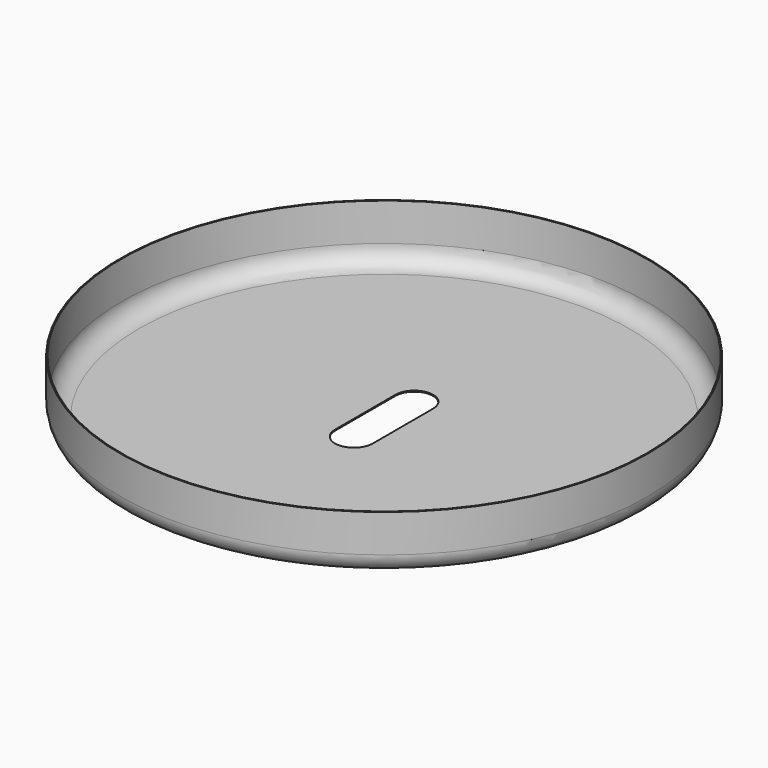
from build123d import *

# Parameters (mm, degrees)
F0_R     = 177.8
F1_DEPTH = 19.05
F2_R     = 12.7
F3_T     = -0.6985
F5_DEPTH = 12.7


with BuildPart() as f1:
    # F0 (on Top) → F1 (new body, symmetric)
    with BuildSketch(Plane.XY):
        Circle(F0_R)
    extrude(amount=F1_DEPTH, both=True)

    # F2
    f2_edges = [f1.edges().sort_by_distance(p)[0] for p in [
        (-177.8, 0, -19.05),
    ]]
    fillet(f2_edges, radius=F2_R)

    # F3
    f3_openings = [f1.faces().sort_by_distance(p)[0] for p in [
        (0, 0, 19.05),
    ]]
    offset(amount=F3_T, openings=f3_openings)

    # F4 (on face) → F5 (cut, symmetric)
    with BuildSketch(Plane(origin=(0, 0, -19.05), x_dir=(1, 0, 0), z_dir=(0, 0, -1))):
        with BuildLine():
            Line((12.7, -25.399946), (12.699786, 25.326312))
            ThreePointArc((12.699786, 25.326312), (0.036844, 38.099947), (-12.7, 25.4))
            Line((-12.7, 25.4), (-12.7, -25.4))
            ThreePointArc((-12.7, -25.4), (2.7e-05, -38.1), (12.7, -25.399946))
        make_face()
    extrude(amount=F5_DEPTH, both=True, mode=Mode.SUBTRACT)


solid = f1.part
